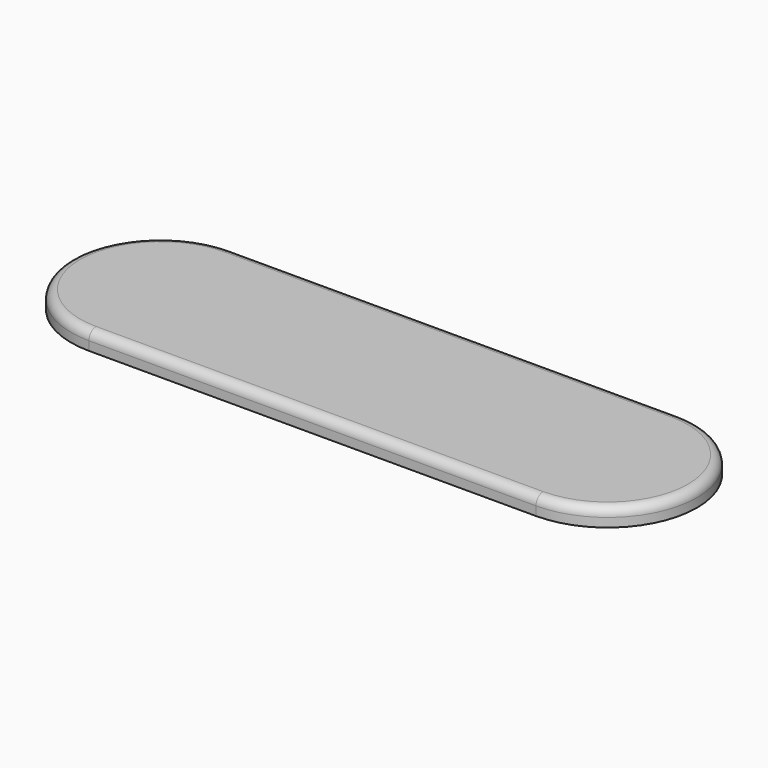
from build123d import *

# Parameters (mm, degrees)
PAD_DEPTH    = 2
FILLET_R     = 1
SKETCH001_R  = 1.9
POCKET_DEPTH = 1.82


with BuildPart() as part:
    # Sketch → Pad (new body)
    with BuildSketch(Plane.XY):
        with BuildLine():
            Line((-25.000026, 10), (25.000026, 10))
            ThreePointArc((25.000026, -10), (35, 0), (25.000026, 10))
            Line((25.000026, -10), (-25.000026, -10))
            ThreePointArc((-25.000026, 10), (-35, 0), (-25.000026, -10))
        make_face()
    extrude(amount=PAD_DEPTH)

    # Fillet
    fillet_edges = [part.edges().sort_by_distance(p)[0] for p in [
        (0, -10, 2),
        (-35, 0, 2),
        (0, 10, 2),
        (35, 0, 2),
    ]]
    fillet(fillet_edges, radius=FILLET_R)

    # Sketch001 → Pocket (cut)
    with BuildSketch(Plane.XY):
        with Locations((-25, 0)):
            Circle(SKETCH001_R)
        with Locations((25, 0)):
            Circle(SKETCH001_R)
        with BuildLine():
            ThreePointArc((-14.605792, 5.786588), (-13.752163, 5.202442), (-12.726434, 5.335813))
            Line((-12.726434, 5.335813), (-11.279808, 4.449738))
            ThreePointArc((-11.279808, 4.449738), (-10.93256, 3.475404), (-10.024334, 2.980395))
            Line((-10.024334, 2.980395), (-9.374811, 1.41324))
            ThreePointArc((-9.374811, 1.41324), (-9.666581, 0.42088), (-9.22277, -0.513433))
            Line((-9.22277, -0.513433), (-9.618445, -2.163068))
            ThreePointArc((-9.618445, -2.163068), (-10.437786, -2.794406), (-10.627911, -3.811147))
            Line((-11.91765, -4.913158), (-10.627911, -3.811147))
            ThreePointArc((-11.91765, -4.913158), (-12.951602, -4.942324), (-13.703041, -5.653132))
            Line((-15.394208, -5.786588), (-13.703041, -5.653132))
            ThreePointArc((-15.394208, -5.786588), (-16.247837, -5.202442), (-17.273566, -5.335813))
            Line((-18.720192, -4.449738), (-17.273566, -5.335813))
            ThreePointArc((-18.720192, -4.449738), (-19.06744, -3.475404), (-19.975666, -2.980395))
            Line((-20.625189, -1.41324), (-19.975666, -2.980395))
            ThreePointArc((-20.625189, -1.41324), (-20.333419, -0.42088), (-20.77723, 0.513433))
            Line((-20.381555, 2.163068), (-20.77723, 0.513433))
            ThreePointArc((-20.381555, 2.163068), (-19.562214, 2.794406), (-19.372089, 3.811147))
            Line((-19.372089, 3.811147), (-18.08235, 4.913158))
            ThreePointArc((-18.08235, 4.913158), (-17.048398, 4.942324), (-16.296959, 5.653132))
            Line((-16.296959, 5.653132), (-14.605792, 5.786588))
        make_face()
        with BuildLine():
            Line((20.648644, -1.316367), (20.026146, -2.894452))
            ThreePointArc((20.026146, -2.894452), (19.126561, -3.404995), (18.796108, -4.385153))
            Line((18.796108, -4.385153), (17.364922, -5.295956))
            ThreePointArc((17.364922, -5.295956), (16.337052, -5.180231), (15.493588, -5.778959))
            Line((15.493588, -5.778959), (13.800377, -5.674584))
            ThreePointArc((13.800377, -5.674584), (13.036835, -4.976794), (12.002534, -4.9654))
            Line((12.002534, -4.9654), (10.694048, -3.885714))
            ThreePointArc((10.694048, -3.885714), (10.48648, -2.872392), (9.65641, -2.255226))
            Line((9.65641, -2.255226), (9.232446, -0.612634))
            ThreePointArc((9.232446, -0.612634), (9.660136, 0.329167), (9.351356, 1.316367))
            Line((9.351356, 1.316367), (9.973854, 2.894452))
            ThreePointArc((9.973854, 2.894452), (10.873439, 3.404995), (11.203892, 4.385153))
            Line((11.203892, 4.385153), (12.635078, 5.295956))
            ThreePointArc((12.635078, 5.295956), (13.662948, 5.180231), (14.506412, 5.778959))
            Line((14.506412, 5.778959), (16.199623, 5.674584))
            ThreePointArc((16.199623, 5.674584), (16.963165, 4.976794), (17.997466, 4.9654))
            Line((17.997466, 4.9654), (19.305952, 3.885714))
            ThreePointArc((19.305952, 3.885714), (19.51352, 2.872392), (20.34359, 2.255226))
            Line((20.34359, 2.255226), (20.767554, 0.612634))
            ThreePointArc((20.767554, 0.612634), (20.339864, -0.329167), (20.648644, -1.316367))
        make_face()
    extrude(amount=POCKET_DEPTH, mode=Mode.SUBTRACT)


solid = part.part
